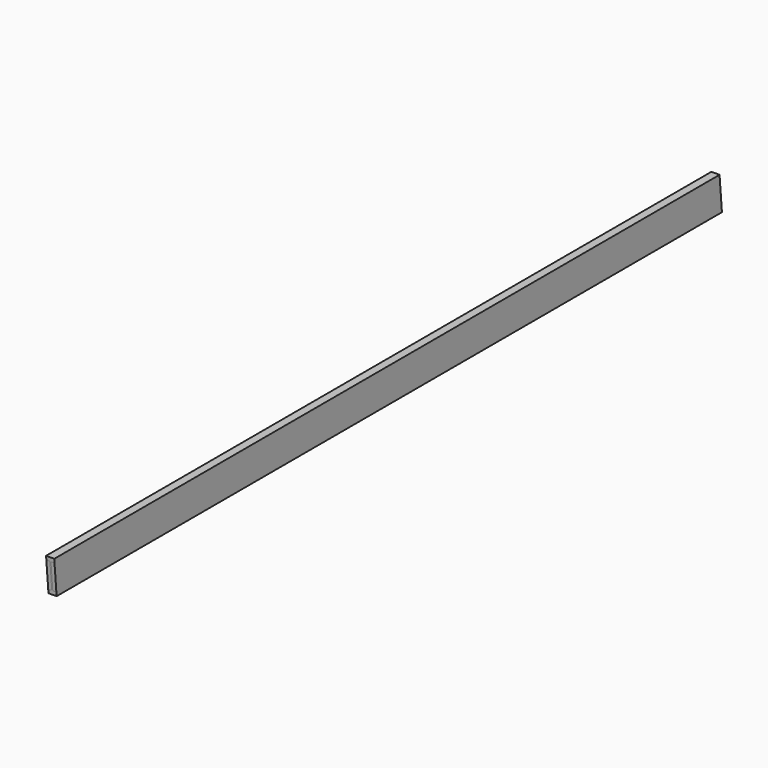
from build123d import *

# Parameters (mm, degrees)
F1_DEPTH = 7620
F3_DEPTH = 72.10199
F5_DEPTH = 31.287995
F7_DEPTH = 31.287995


with BuildPart() as f1:
    # F0 (on Front) → F1 (new body)
    with BuildSketch(Plane.XZ):
        Polygon((0, 33.655), (0, 0), (72.10099, 0), (72.10099, 33.655), (40.812995, 33.655), (40.812995, 267.97), (72.10099, 267.97), (72.10099, 301.625), (0, 301.625), (0, 267.97), (31.287995, 267.97), (31.287995, 33.655), align=None)
    extrude(amount=F1_DEPTH)

    # F2 (on face) → F3 (cut, through all)
    with BuildSketch(Plane.YZ.offset(72.10099)):
        Polygon((-7620, 0), (-7342.606046, 0), (-7368.73962, 301.625), (-7620, 301.625), align=None)
        Polygon((-26.133574, 301.625), (0, 0), (0, 301.625), align=None)
    extrude(amount=-F3_DEPTH, mode=Mode.SUBTRACT)

    # F4 (on face) → F5 (join, through all)
    with BuildSketch(Plane.YZ.offset(40.812995)):
        Polygon((-23.217617, 267.97), (-7365.823663, 267.97), (-7345.522003, 33.655), (-2.915957, 33.655), align=None)
    extrude(amount=F5_DEPTH)

    # F6 (on face) → F7 (join, through all)
    with BuildSketch(Plane(origin=(31.287995, 0, 0), x_dir=(0, -1, 0), z_dir=(-1, 0, 0))):
        Polygon((23.217617, 267.97), (2.915957, 33.655), (7345.522003, 33.655), (7365.823663, 267.97), align=None)
    extrude(amount=F7_DEPTH)


solid = f1.part
